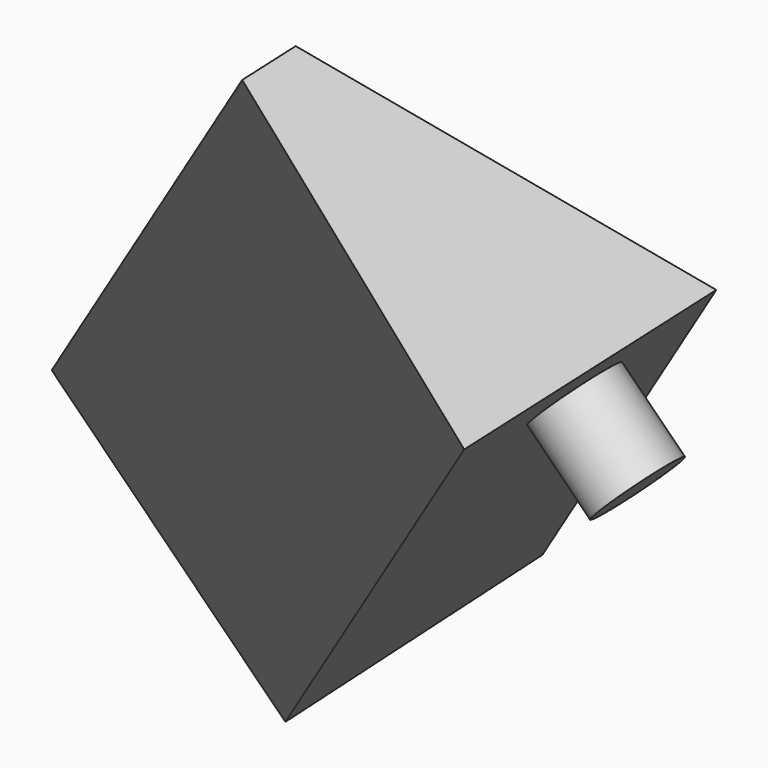
from build123d import *

# Parameters (mm, degrees)
PAD001_DEPTH            = 150
SKETCH001_R             = 7.5
PAD_DEPTH               = 15
SKETCH003_R             = 7.5
POCKET003_DEPTH         = 15
POCKET004_DEPTH         = 50
BODY005_PLACEMENT_ANGLE = 270


with BuildPart() as part:
    # Sketch002 (on DatumPlane) → Pad001 (new body, symmetric)
    with BuildSketch(Plane(origin=(0, -50, 50), x_dir=(0.8164965809, -0.4082482905, -0.4082482905), z_dir=(-0.5773502692, -0.5773502692, -0.5773502692))):
        Polygon((0, 0), (0, 55.7106781187), (-8.6602540378, 55.7106781187), (-40.8248290464, 0), align=None)
    extrude(amount=PAD001_DEPTH, both=True)

    # Sketch001 (on Face7 of Binder001) → Pad (join)
    with BuildSketch(Plane(origin=(0, -50, 50), x_dir=(1, 0, 0), z_dir=(0, -0.7071067812, 0.7071067812))):
        with Locations((32.1969593942, 80.8887157017)):
            Circle(SKETCH001_R)
    extrude(amount=-PAD_DEPTH)

    # Sketch003 (on Face6 of Pad) → Pocket003 (cut)
    with BuildSketch(Plane(origin=(-25, -50, 75), x_dir=(-0.4082482905, 0.8164965809, -0.4082482905), z_dir=(-0.7071067812, 0, 0.7071067812))):
        with Locations((-11.7521604853, -47.4562863756)):
            Circle(SKETCH003_R)
    extrude(amount=-POCKET003_DEPTH, mode=Mode.SUBTRACT)

    # Sketch005 (on Face6 of Pocket003) → Pocket004 (cut)
    with BuildSketch(Plane(origin=(-25, -50, 75), x_dir=(-0.4082482905, 0.8164965809, -0.4082482905), z_dir=(-0.7071067812, 0, 0.7071067812))):
        Polygon((20.4124145232, -103.8675134595), (-48.2468625128, -128.1422336512), (-48.2468625128, -150), (20.4124145232, -150), align=None)
    extrude(amount=-POCKET004_DEPTH, mode=Mode.SUBTRACT)


with BuildPart() as part_1:
    # Body005 placement: moved
    add(part.part.rotate(Axis((0, 0, 0), (0, 0, 1)), BODY005_PLACEMENT_ANGLE))


solid = part_1.part
